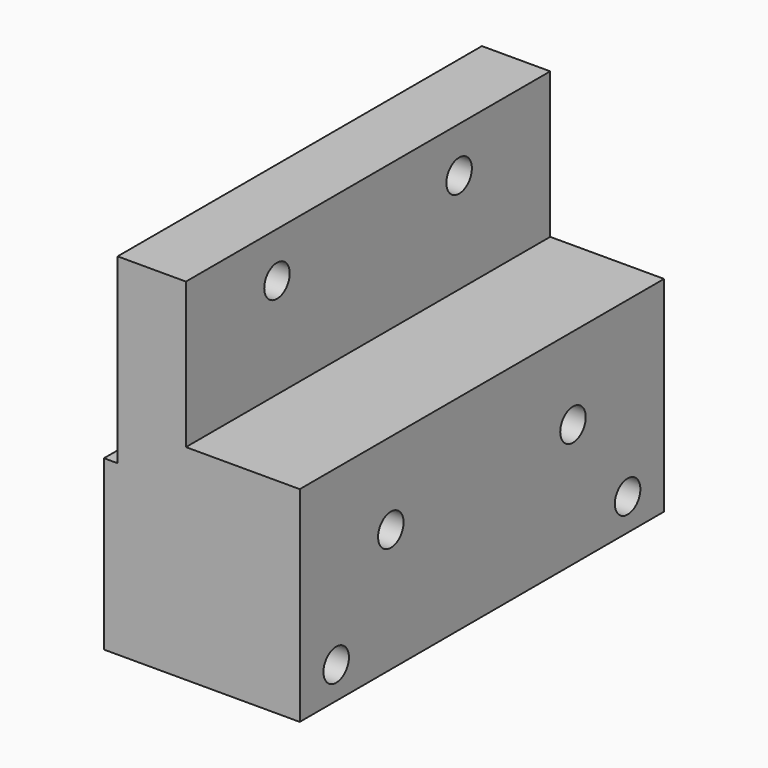
from build123d import *

# Parameters (mm, degrees)
F1_DEPTH = 100
F2_R     = 3.5
F3_DEPTH = 50


with BuildPart() as f1:
    # F0 (on Front) → F1 (new body)
    with BuildSketch(Plane.XZ):
        Polygon((5.267137222, 0), (5.267137222, -37), (48.267137222, -37), (48.267137222, 8), (23.267137222, 8), (23.267137222, 40), (8.267137222, 40), (8.267137222, 0), align=None)
    extrude(amount=F1_DEPTH)

    # F2 (on face) → F3 (cut, symmetric)
    with BuildSketch(Plane(origin=(8.267137222, 0, 0), x_dir=(0, -1, 0), z_dir=(-1, 0, 0))):
        with Locations((25, 30)):
            Circle(F2_R)
        with Locations((75, 30)):
            Circle(F2_R)
        with Locations((25, -10)):
            Circle(F2_R)
        with Locations((75, -10)):
            Circle(F2_R)
        with Locations((90, -30)):
            Circle(F2_R)
        with Locations((10, -30)):
            Circle(F2_R)
    extrude(amount=F3_DEPTH, both=True, mode=Mode.SUBTRACT)


solid = f1.part
